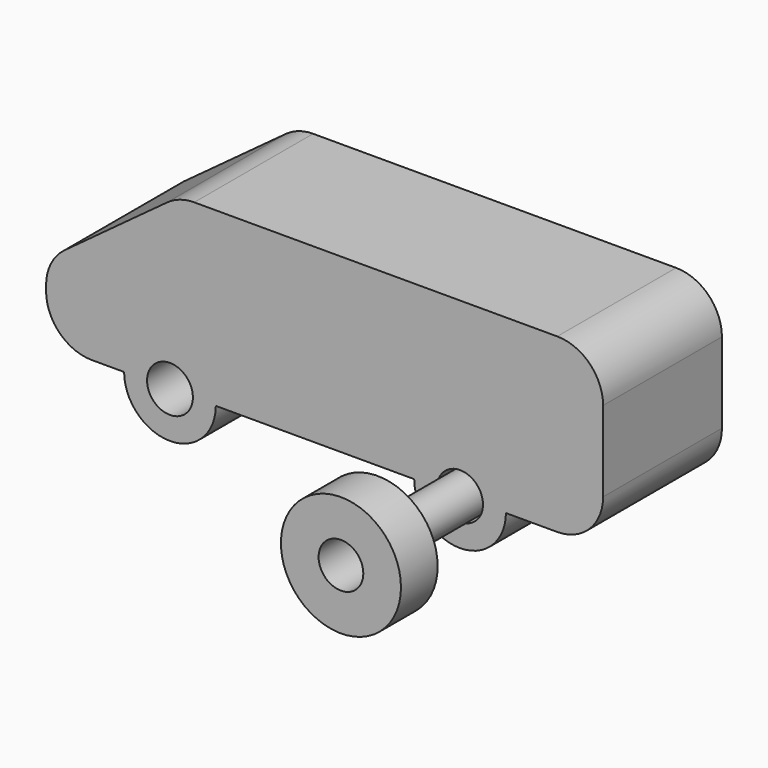
from build123d import *

# Parameters (mm, degrees)
F1_DEPTH = 32.4
F2_R     = 4.4508711147
F3_DEPTH = 55
F4_R     = 13.0938793488
F4_R_2   = 4.8786772114
F5_DEPTH = 10


with BuildPart() as f1:
    # F0 (on Front) → F1 (new body)
    with BuildSketch(Plane.XZ):
        with BuildLine():
            Line((-54.4117640608, 11.1319997395), (-54.4117640608, 10))
            ThreePointArc((-54.4117640608, 10), (-51.4828318727, 2.9289321881), (-44.4117640608, 0))
            Line((-44.4117640608, 0), (-37.3888360451, 0))
            ThreePointArc((-37.3888360451, 0), (-27.3888360451, 10), (-17.3888360451, 0))
            Line((-17.3888360451, 0), (25.8888206446, 0))
            ThreePointArc((25.8888206446, 0), (35.8888206446, 10), (45.8888206446, 0))
            Line((45.8888206446, 0), (57.0894953274, 0))
            ThreePointArc((57.0894953274, 0), (64.1605631392, 2.9289321881), (67.0894953274, 10))
            Line((67.0894953274, 10), (67.0894953274, 27.5541305458))
            ThreePointArc((67.0894953274, 27.5541305458), (64.1605631392, 34.6251983576), (57.0894953274, 37.5541305458))
            Line((57.0894953274, 37.5541305458), (-22.0879299198, 37.5541305458))
            ThreePointArc((-22.0879299198, 37.5541305458), (-25.2062545738, 37.0555015706), (-28.0136018226, 35.6093408162))
            Line((-28.0136018226, 35.6093408162), (-50.3374359636, 19.1872100099))
            ThreePointArc((-50.3374359636, 19.1872100099), (-53.3352364519, 15.6454951129), (-54.4117640608, 11.1319997395))
        make_face()
        with BuildLine():
            ThreePointArc((-17.3888360451, 0), (-27.3888360451, 10), (-37.3888360451, 0))
            Line((-37.3888360451, 0), (-32.3888360451, 0))
            ThreePointArc((-32.3888360451, 0), (-27.3888360451, 5), (-22.3888360451, 0))
            Line((-22.3888360451, 0), (-17.3888360451, 0))
        make_face()
        with BuildLine():
            Line((-32.3888360451, 0), (-37.3888360451, 0))
            ThreePointArc((-37.3888360451, 0), (-27.3888360451, -10), (-17.3888360451, 0))
            Line((-17.3888360451, 0), (-22.3888360451, 0))
            ThreePointArc((-22.3888360451, 0), (-27.3888360451, -5), (-32.3888360451, 0))
        make_face()
        with BuildLine():
            ThreePointArc((45.8888206446, 0), (35.8888206446, 10), (25.8888206446, 0))
            Line((25.8888206446, 0), (30.8888206446, 0))
            ThreePointArc((30.8888206446, 0), (35.8888206446, 5), (40.8888206446, 0))
            Line((40.8888206446, 0), (45.8888206446, 0))
        make_face()
        with BuildLine():
            Line((30.8888206446, 0), (25.8888206446, 0))
            ThreePointArc((25.8888206446, 0), (35.8888206446, -10), (45.8888206446, 0))
            Line((45.8888206446, 0), (40.8888206446, 0))
            ThreePointArc((40.8888206446, 0), (35.8888206446, -5), (30.8888206446, 0))
        make_face()
    extrude(amount=F1_DEPTH)


with BuildPart() as f3:
    # F2 (on Front) → F3 (new body)
    with BuildSketch(Plane.XZ):
        with Locations((35.986777395, 0)):
            Circle(F2_R)
    extrude(amount=F3_DEPTH)


with BuildPart() as f5:
    # F4 (on face) → F5 (new body)
    with BuildSketch(Plane.XZ.offset(55)):
        with Locations((35.986777395, 0)):
            Circle(F4_R)
        with Locations((35.986777395, 0)):
            Circle(F4_R_2, mode=Mode.SUBTRACT)
    extrude(amount=F5_DEPTH)


solid = Compound([f1.part, f3.part, f5.part])
